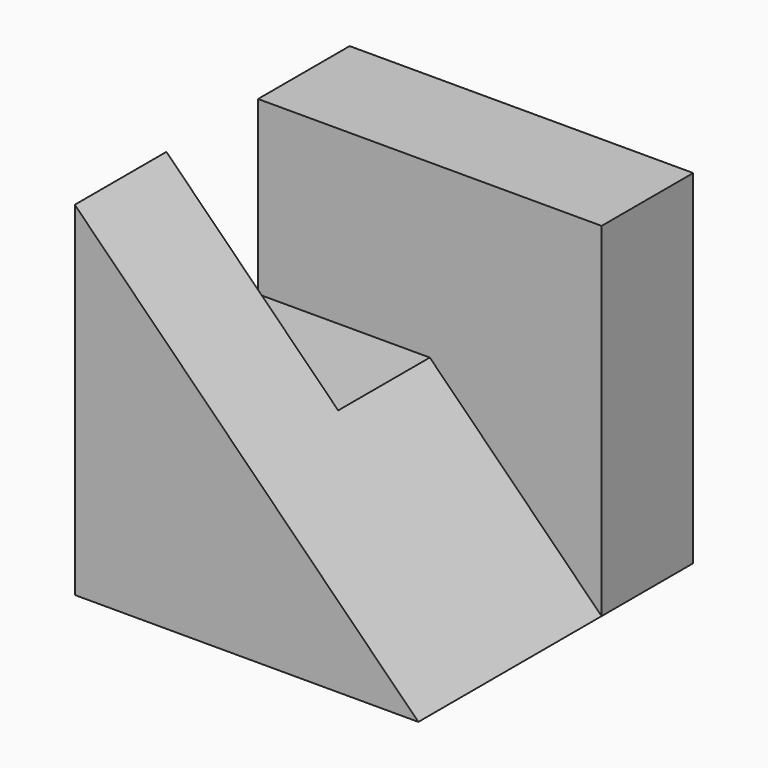
from build123d import *

# Parameters (mm, degrees)
F0_W     = 30
F0_H     = 30
F1_DEPTH = 10
F3_DEPTH = 20
F4_W     = 10
F4_H     = 15
F5_DEPTH = 30.001


with BuildPart() as f1:
    # F0 (on Front) → F1 (new body)
    with BuildSketch(Plane.XZ):
        with Locations((15, 15)):
            Rectangle(F0_W, F0_H)
    extrude(amount=F1_DEPTH)

    # F2 (on face) → F3 (join)
    with BuildSketch(Plane.XZ.offset(10)):
        Polygon((0, 30), (0, 0), (30, 0), align=None)
    extrude(amount=F3_DEPTH)

    # F4 (on face) → F5 (cut, through all)
    with BuildSketch(Plane(origin=(0, 0, 0), x_dir=(0, -1, 0), z_dir=(-1, 0, 0))):
        with Locations((15, 22.5)):
            Rectangle(F4_W, F4_H)
    extrude(amount=-F5_DEPTH, mode=Mode.SUBTRACT)


solid = f1.part
